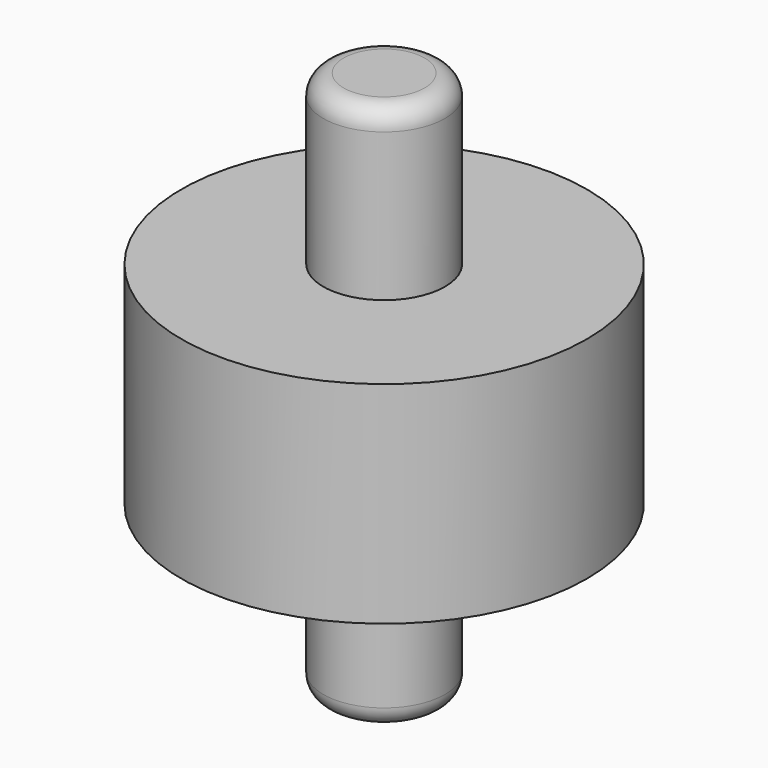
from build123d import *

# Parameters (mm, degrees)
F0_R     = 2.5
F0_R_2   = 0.75
F1_DEPTH = 1.3
F2_R     = 0.75
F3_DEPTH = 3.375
F4_R     = 0.25


with BuildPart() as f1:
    # F0 (on Top) → F1 (new body, symmetric)
    with BuildSketch(Plane.XY):
        Circle(F0_R)
        Circle(F0_R_2, mode=Mode.SUBTRACT)
    extrude(amount=F1_DEPTH, both=True)


with BuildPart() as f3:
    # F2 (on Top) → F3 (new body, symmetric)
    with BuildSketch(Plane.XY):
        Circle(F2_R)
    extrude(amount=F3_DEPTH, both=True)

    # F4
    f4_edges = [f3.edges().sort_by_distance(p)[0] for p in [
        (-0.75, 0, -3.375),
        (-0.75, 0, 3.375),
    ]]
    fillet(f4_edges, radius=F4_R)


solid = Compound([f1.part, f3.part])
